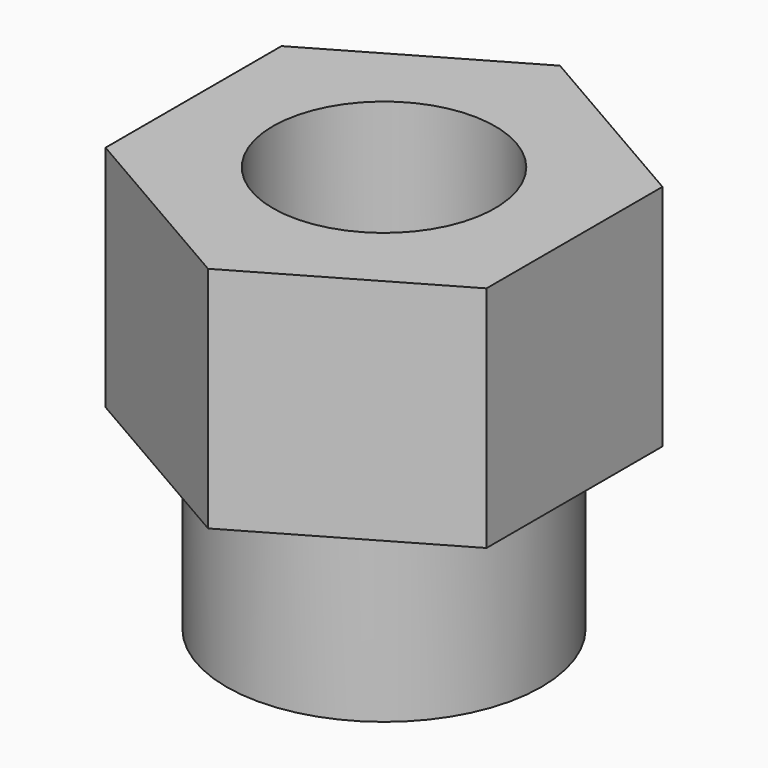
from build123d import *

# Parameters (mm, degrees)
F1_DEPTH = 20.32
F2_W     = 3.1245226281
F2_H     = 8.89
F6_D     = 11.1125


with BuildPart() as f1:
    # F0 (on Top) → F1 (new body)
    with BuildSketch(Plane.XY):
        Polygon((-9.525, 5.499261314), (-9.525, -5.499261314), (0, -10.9985226281), (9.525, -5.499261314), (9.525, 5.499261314), (0, 10.9985226281), align=None)
    extrude(amount=-F1_DEPTH)

    # F2 (on Right) → F4 (revolve, cut)
    with BuildSketch(Plane.YZ):
        with Locations((-9.436261314, -15.875)):
            Rectangle(F2_W, F2_H)
    revolve(axis=Axis((0, 0, -8.0978884362), (0, 0, -1)), mode=Mode.SUBTRACT)

    # F6 (through all)
    with Locations(Plane.XY):
        with Locations((0, 0)):
            Hole(F6_D / 2)


solid = f1.part
